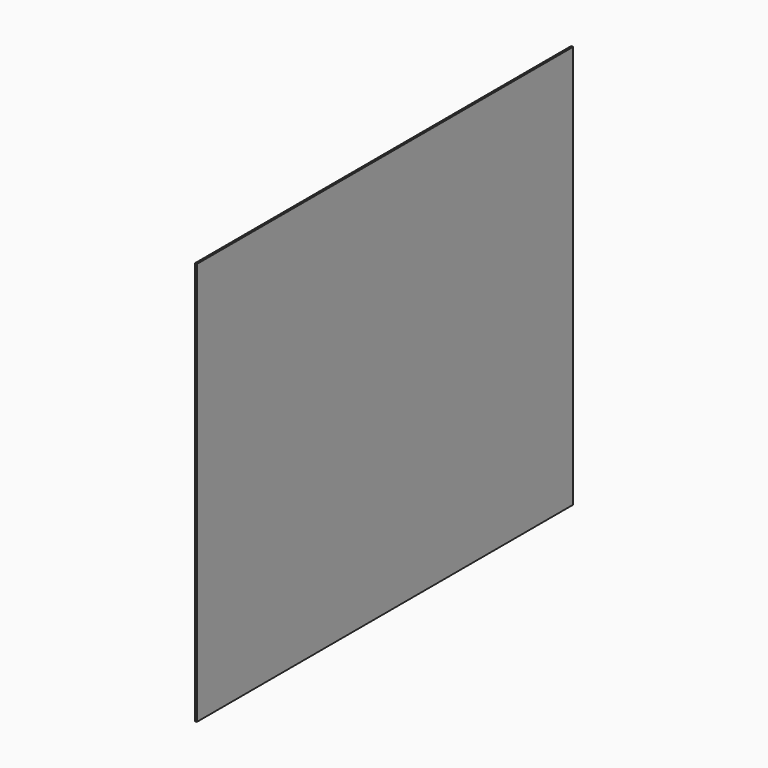
from build123d import *

# Parameters (mm, degrees)
SKETCH_W  = 350
SKETCH_H  = 300
PAD_DEPTH = 1.5


with BuildPart() as part:
    # Sketch → Pad (new body)
    with BuildSketch(Plane.YZ):
        with Locations((0, 150)):
            Rectangle(SKETCH_W, SKETCH_H)
    extrude(amount=PAD_DEPTH)


solid = part.part
